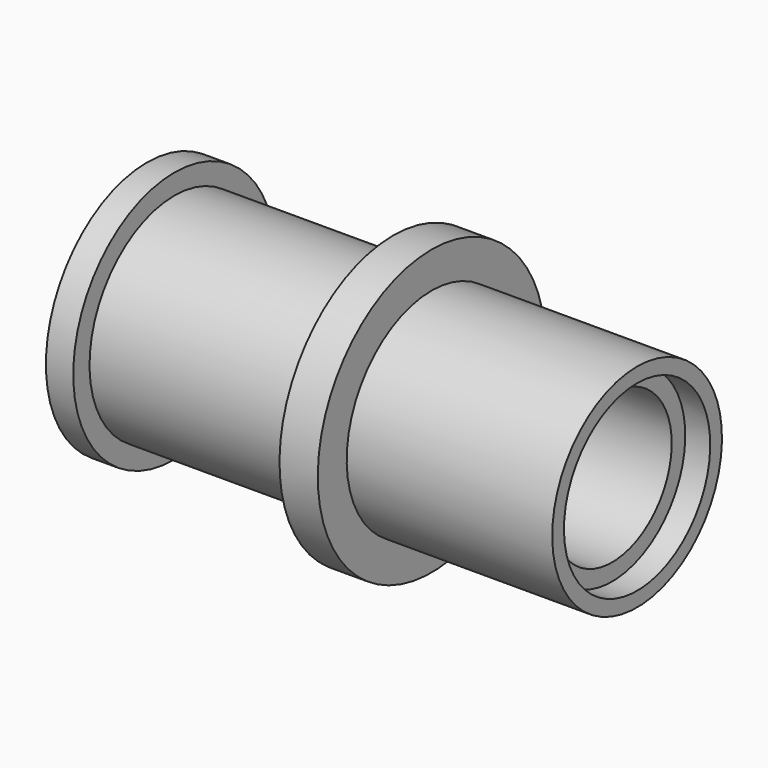
from build123d import *


with BuildPart() as f1:
    # F0 (on Front) → F1 (revolve)
    with BuildSketch(Plane.XZ):
        Polygon((0, -1.204913), (0, 0), (0, 0.417598), (0, 2.252663), (8.382, 2.252663), (8.382, 3.038475), (9.540691, 3.038475), (9.540691, 3.719513), (0, 3.719513), (0, 5.395913), (-1.778, 5.395913), (-1.778, 3.719513), (-11.938, 3.719513), (-11.938, 4.662488), (-13.208, 4.662488), (-13.208, 2.252663), (-1.778, 2.252663), (-1.778, -1.204913), align=None)
    revolve(axis=Axis((-0.889, 0, -1.204913), (1, 0, 0)))


solid = f1.part
